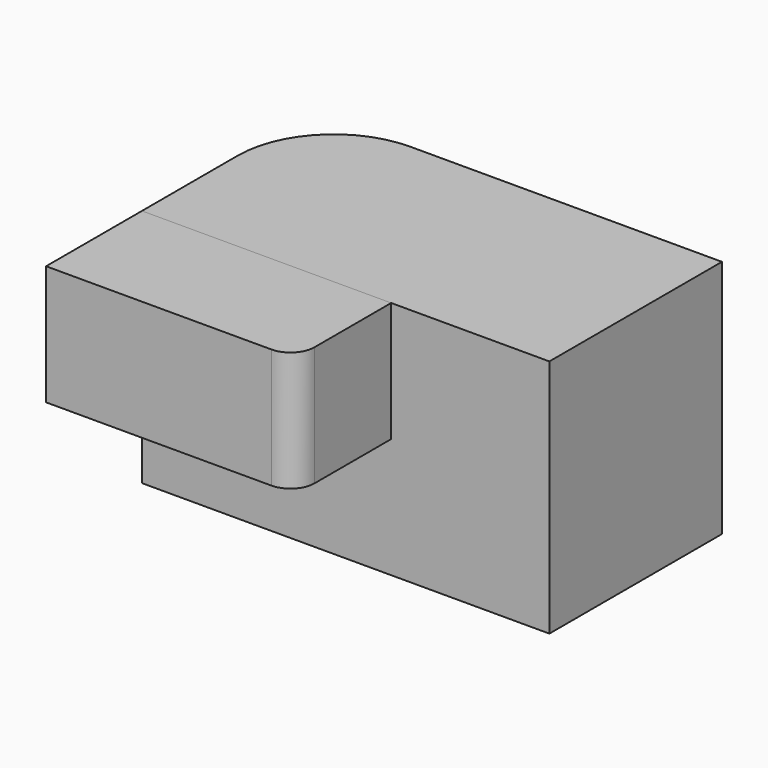
from build123d import *

# Parameters (mm, degrees)
F0_W     = 85
F0_H     = 45
F1_DEPTH = 50
F2_R     = 20
F3_W     = 52
F3_H     = 25.000003
F4_DEPTH = 25
F5_R     = 5


with BuildPart() as f1:
    # F0 (on Top) → F1 (new body)
    with BuildSketch(Plane.XY):
        Rectangle(F0_W, F0_H)
    extrude(amount=F1_DEPTH)

    # F2
    f2_edges = [f1.edges().sort_by_distance(p)[0] for p in [
        (-42.5, 22.5, 25),
    ]]
    fillet(f2_edges, radius=F2_R)

    # F3 (on face) → F4 (join)
    with BuildSketch(Plane.XZ.offset(22.5)):
        with Locations((-16.5, 37.499999)):
            Rectangle(F3_W, F3_H)
    extrude(amount=F4_DEPTH)

    # F5
    f5_edges = [f1.edges().sort_by_distance(p)[0] for p in [
        (9.5, -47.5, 37.499998),
    ]]
    fillet(f5_edges, radius=F5_R)


solid = f1.part
